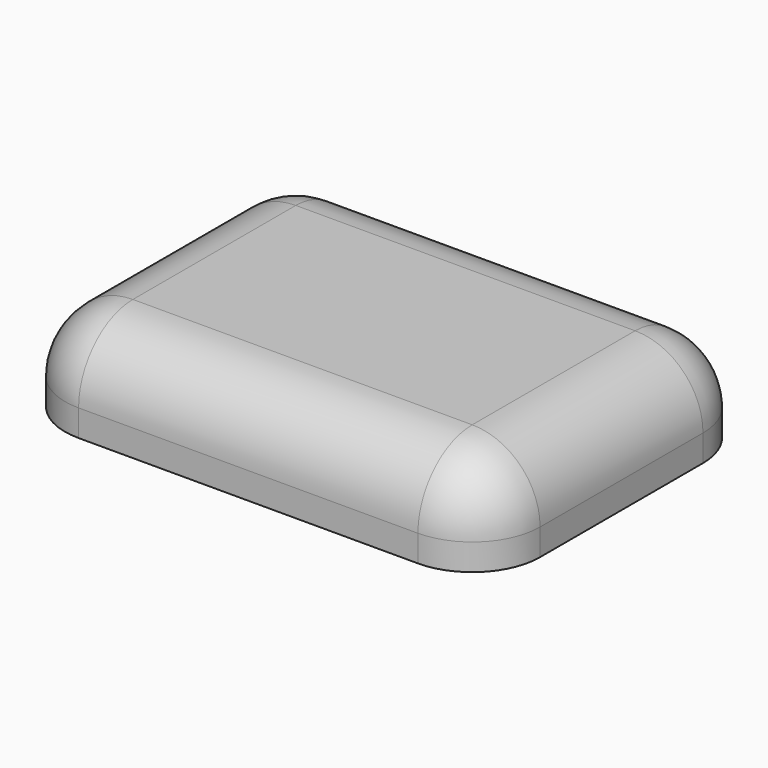
from build123d import *

# Parameters (mm, degrees)
F0_W     = 127
F0_H     = 35.337034
F1_DEPTH = 88.9
F2_R     = 25.4
F3_R     = 25.4
F4_R     = 25.4
F5_R     = 25.4


with BuildPart() as f1:
    # F0 (on Right) → F1 (new body, symmetric)
    with BuildSketch(Plane.YZ):
        with Locations((-5.457316, 29.881938)):
            Rectangle(F0_W, F0_H)
    extrude(amount=F1_DEPTH, both=True)

    # F2
    f2_edges = [f1.edges().sort_by_distance(p)[0] for p in [
        (-88.9, -5.457316, 47.550455),
    ]]
    fillet(f2_edges, radius=F2_R)

    # F3
    f3_edges = [f1.edges().sort_by_distance(p)[0] for p in [
        (88.9, -5.457316, 47.550455),
    ]]
    fillet(f3_edges, radius=F3_R)

    # F4
    f4_edges = [f1.edges().sort_by_distance(p)[0] for p in [
        (-88.9, 58.042684, 17.181938),
    ]]
    fillet(f4_edges, radius=F4_R)

    # F5
    f5_edges = [f1.edges().sort_by_distance(p)[0] for p in [
        (-88.9, -68.957316, 17.181938),
    ]]
    fillet(f5_edges, radius=F5_R)


solid = f1.part
